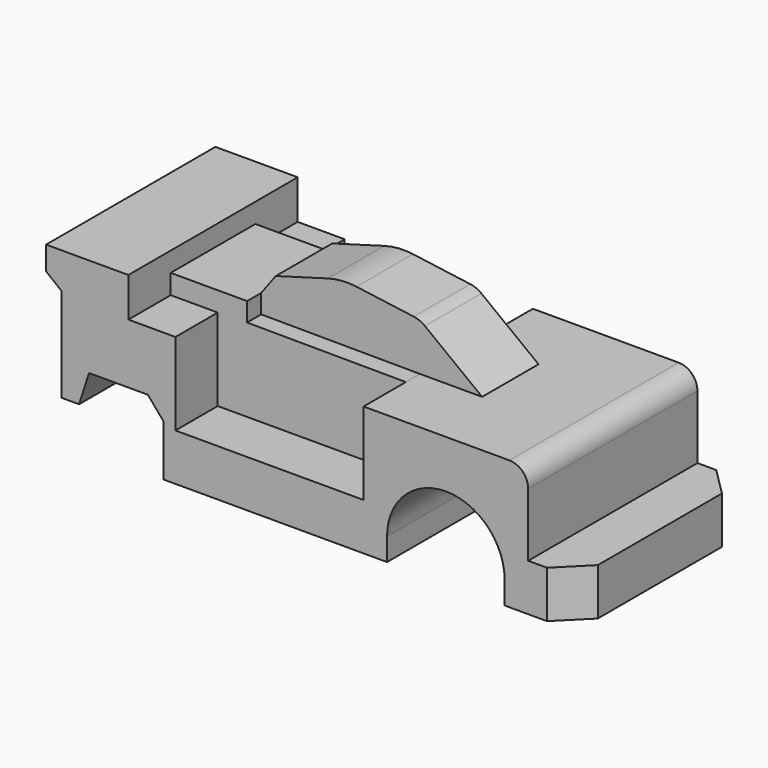
from build123d import *

# Parameters (mm, degrees)
F1_DEPTH = 28.575
F2_DEPTH = 14.2875
F3_DEPTH = 14.2875
F4_R     = 5.08
F5_DEPTH = 9.525
F6_SIZE  = 7.62


with BuildPart() as f1:
    # F0 (on Front) → F1 (new body, symmetric)
    with BuildSketch(Plane.XZ):
        with BuildLine():
            Line((-32.86058, -11.644275), (-32.86058, -25.442014))
            Line((-32.86058, -25.442014), (27.46442, -25.442014))
            Line((27.46442, -25.442014), (27.46442, -19.346014))
            ThreePointArc((27.46442, -19.346014), (43.33942, -3.471014), (59.21442, -19.346014))
            Line((59.21442, -19.346014), (59.21442, -25.442014))
            Line((59.21442, -25.442014), (78.26442, -25.442014))
            Line((78.26442, -25.442014), (78.26442, -18.228882))
            Line((78.26442, -18.228882), (78.26442, -12.742014))
            Line((78.26442, -12.742014), (65.56442, -12.742014))
            Line((65.56442, -12.742014), (65.56442, 9.482986))
            Line((65.56442, 9.482986), (37.893278, 9.482986))
            Line((37.893278, 9.482986), (21.11442, 9.482986))
            Line((21.11442, 9.482986), (21.11442, -12.742014))
            Line((21.11442, -12.742014), (-29.68558, -12.742014))
            Line((-29.68558, -12.742014), (-29.68558, 9.482986))
            Line((-29.68558, 9.482986), (-42.38558, 9.482986))
            Line((-42.38558, 9.482986), (-42.38558, 14.788094))
            Line((-42.38558, 14.788094), (-42.38558, 20.093201))
            Line((-42.38558, 20.093201), (-64.61058, 20.093201))
            Line((-64.61058, 20.093201), (-64.61058, 13.743201))
            Line((-64.61058, 13.743201), (-60.467657, 10.428858))
            Line((-60.467657, 10.428858), (-60.467657, -14.971142))
            Line((-60.467657, -14.971142), (-55.692457, -14.971142))
            Line((-55.692457, -14.971142), (-53.014755, -6.6675))
            Line((-53.014755, -6.6675), (-37.139755, -6.6675))
            Line((-37.139755, -6.6675), (-32.86058, -11.644275))
        make_face()
    extrude(amount=F1_DEPTH, both=True)

    # F0 (on Front) → F2 (join, symmetric)
    with BuildSketch(Plane.XZ):
        Polygon((21.11442, -12.742014), (21.11442, 9.482986), (-21.76078, 9.690133), (-29.68558, 9.482986), (-29.68558, -12.742014), align=None)
    extrude(amount=F2_DEPTH, both=True)

    # F0 (on Front) → F3 (join, symmetric)
    with BuildSketch(Plane.XZ):
        Polygon((-21.76078, 14.788094), (-42.38558, 14.788094), (-42.38558, 9.482986), (-29.68558, 9.482986), (-21.76078, 9.690133), align=None)
    extrude(amount=F3_DEPTH, both=True)

    # F4
    f4_edges = [f1.edges().sort_by_distance(p)[0] for p in [
        (65.56442, 0, 9.482986),
    ]]
    fillet(f4_edges, radius=F4_R)

    # F0 (on Front) → F5 (join, symmetric)
    with BuildSketch(Plane.XZ):
        with BuildLine():
            Line((21.11442, 9.482986), (37.893278, 9.482986))
            Line((37.893278, 9.482986), (22.453869, 21.300806))
            ThreePointArc((22.453869, 21.300806), (21.02995, 22.122689), (19.442752, 22.551457))
            Line((19.442752, 22.551457), (3.988611, 24.635159))
            ThreePointArc((3.988611, 24.635159), (0.087031, 24.757666), (-3.75761, 24.082341))
            Line((-3.75761, 24.082341), (-17.814589, 20.093201))
            Line((-17.814589, 20.093201), (-21.76078, 14.788094))
            Line((-21.76078, 14.788094), (-21.76078, 9.690133))
            Line((-21.76078, 9.690133), (21.11442, 9.482986))
        make_face()
    extrude(amount=F5_DEPTH, both=True)

    # F6
    f6_edges = [f1.edges().sort_by_distance(p)[0] for p in [
        (78.26442, -28.575, -19.092014),
        (78.26442, 28.575, -19.092014),
    ]]
    chamfer(f6_edges, length=F6_SIZE)


solid = f1.part
